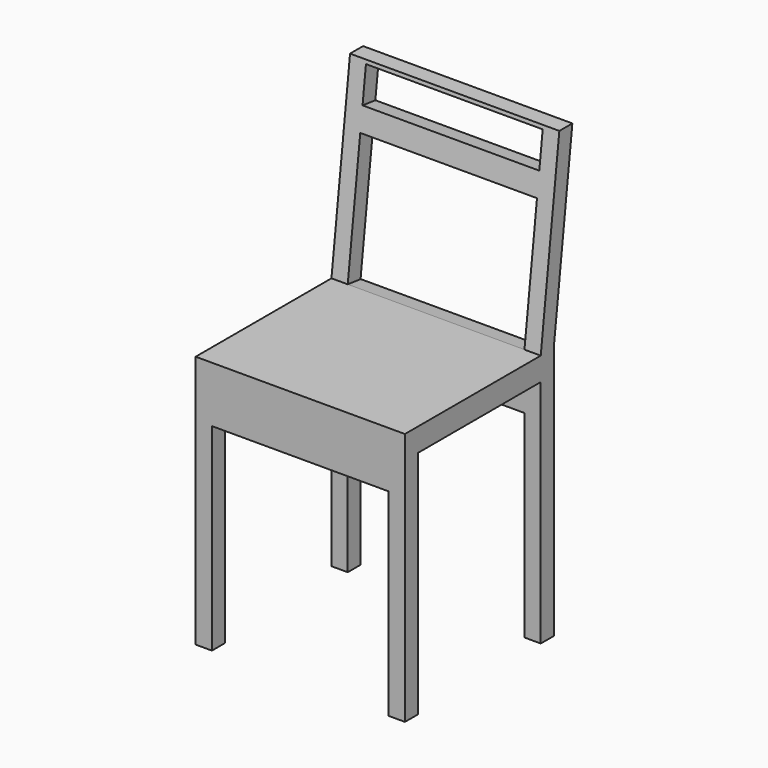
from build123d import *

# Parameters (mm, degrees)
F0_W     = 450
F0_H     = 450
F1_DEPTH = 950
F2_W     = 330
F2_H     = 494.9696660042
F2_W_2   = 50
F2_H_2   = 50
F3_DEPTH = 450.001
F4_W     = 380
F4_H     = 425
F5_DEPTH = 450.001
F6_W     = 380
F6_H     = 275
F6_H_2   = 75
F7_DEPTH = 151.1289788998


with BuildPart() as f1:
    # F0 (on Top) → F1 (new body)
    with BuildSketch(Plane.XY):
        Rectangle(F0_W, F0_H)
    extrude(amount=F1_DEPTH)

    # F2 (on face) → F3 (cut, through all)
    with BuildSketch(Plane.YZ.offset(225)):
        with Locations((-25, 247.4848330021)):
            Rectangle(F2_W, F2_H)
        with Locations((200, 247.4848330021)):
            Rectangle(F2_W_2, F2_H)
        Polygon((225, 950), (175, 544.9696660042), (225, 544.9696660042), align=None)
        with Locations((200, 519.9696660042)):
            Rectangle(F2_W_2, F2_H_2)
        Polygon((-225, 950), (-225, 544.9696660042), (140, 544.9696660042), (190, 950), align=None)
    extrude(amount=-F3_DEPTH, mode=Mode.SUBTRACT)

    # F4 (on face) → F5 (cut, through all)
    with BuildSketch(Plane.XZ.offset(225)):
        with Locations((0, 212.5)):
            Rectangle(F4_W, F4_H)
    extrude(amount=-F5_DEPTH, mode=Mode.SUBTRACT)

    # F6 (on face) → F7 (cut, through all)
    with BuildSketch(Plane(origin=(0, 71.633193695, -8.8429418345), x_dir=(1, 0, 0), z_dir=(0, -0.9924663491, 0.1225175334))):
        with Locations((0, 695.5165094381)):
            Rectangle(F6_W, F6_H)
        with Locations((0, 920.5165094381)):
            Rectangle(F6_W, F6_H_2)
    extrude(amount=-F7_DEPTH, mode=Mode.SUBTRACT)


solid = f1.part
